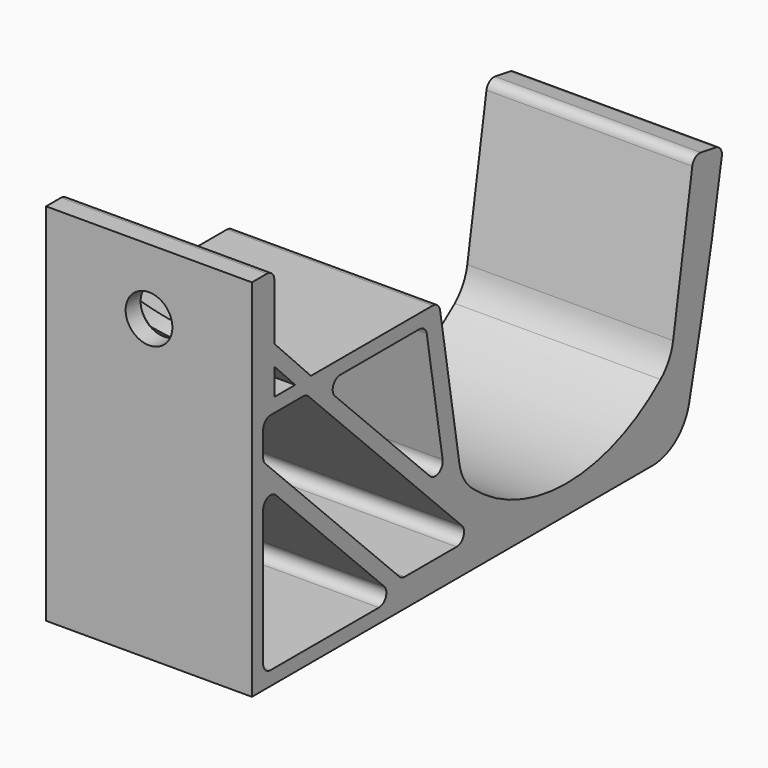
from build123d import *

# Parameters (mm, degrees)
F1_DEPTH  = 22
F2_R      = 5
F3_R      = 1
F4_R      = 1
F6_R      = 5
F7_DEPTH  = 47
F8_R      = 2.5
F9_DEPTH  = 50.001
F10_SIZE  = 1
F12_W     = 2
F12_H     = 14.2733568645
F13_DEPTH = 47
F16_DEPTH = 10
F17_R     = 0.5
F19_DEPTH = 22


with BuildPart() as f1:
    # F0 (on Right) → F1 (new body)
    with BuildSketch(Plane.YZ):
        with BuildLine():
            Line((3, 32), (3, 39))
            Line((3, 39), (0, 39))
            Line((0, 39), (0, 0))
            Line((0, 0), (57.4654344921, 0))
            ThreePointArc((57.4654344921, 0), (60.4687056177, 13.1164471126), (62.9455756953, 26.3424040508))
            Line((62.9455756953, 26.3424040508), (59, 27))
            Line((59, 27), (56, 9))
            ThreePointArc((56, 9), (42, 3), (28, 9))
            Line((28, 9), (25, 27))
            Line((25, 27), (7.8786796564, 27))
            Line((7.8786796564, 27), (5.7829372183, 27))
            Line((5.7829372183, 27), (3, 27))
            Line((3, 27), (3, 29.8521417825))
            Line((3, 29.8521417825), (3, 32))
        make_face()
        Polygon((19.3786796564, 1.5), (1.5, 1.5), (1.5, 19.3786796564), align=None, mode=Mode.SUBTRACT)
        Polygon((20, 3), (1.5, 21.5), (1.5, 25.5), (7.2573593129, 25.5), (29.7573593129, 3), align=None, mode=Mode.SUBTRACT)
        Polygon((25.9911590566, 8.8875205998), (9.3786796564, 25.5), (23.2224124899, 25.5), align=None, mode=Mode.SUBTRACT)
        with BuildLine():
            Line((3, 32), (3, 39))
            Line((3, 39), (0, 39))
            Line((0, 39), (0, 0))
            Line((0, 0), (57.4654344921, 0))
            ThreePointArc((57.4654344921, 0), (60.4687056177, 13.1164471126), (62.9455756953, 26.3424040508))
            Line((62.9455756953, 26.3424040508), (59, 27))
            Line((59, 27), (56, 9))
            ThreePointArc((56, 9), (42, 3), (28, 9))
            Line((28, 9), (25, 27))
            Line((25, 27), (7.8786796564, 27))
            Line((7.8786796564, 27), (5.7829372183, 27))
            Line((5.7829372183, 27), (3, 27))
            Line((3, 27), (3, 29.8521417825))
            Line((3, 29.8521417825), (3, 32))
        make_face()
        Polygon((19.3786796564, 1.5), (1.5, 1.5), (1.5, 19.3786796564), align=None, mode=Mode.SUBTRACT)
        Polygon((20, 3), (1.5, 21.5), (1.5, 25.5), (7.2573593129, 25.5), (29.7573593129, 3), align=None, mode=Mode.SUBTRACT)
        Polygon((25.9911590566, 8.8875205998), (9.3786796564, 25.5), (23.2224124899, 25.5), align=None, mode=Mode.SUBTRACT)
        with BuildLine():
            Line((3, 32), (3, 39))
            Line((3, 39), (0, 39))
            Line((0, 39), (0, 0))
            Line((0, 0), (57.4654344921, 0))
            ThreePointArc((57.4654344921, 0), (60.4687056177, 13.1164471126), (62.9455756953, 26.3424040508))
            Line((62.9455756953, 26.3424040508), (59, 27))
            Line((59, 27), (56, 9))
            ThreePointArc((56, 9), (42, 3), (28, 9))
            Line((28, 9), (25, 27))
            Line((25, 27), (7.8786796564, 27))
            Line((7.8786796564, 27), (5.7829372183, 27))
            Line((5.7829372183, 27), (3, 27))
            Line((3, 27), (3, 29.8521417825))
            Line((3, 29.8521417825), (3, 32))
        make_face()
        Polygon((19.3786796564, 1.5), (1.5, 1.5), (1.5, 19.3786796564), align=None, mode=Mode.SUBTRACT)
        Polygon((20, 3), (1.5, 21.5), (1.5, 25.5), (7.2573593129, 25.5), (29.7573593129, 3), align=None, mode=Mode.SUBTRACT)
        Polygon((25.9911590566, 8.8875205998), (9.3786796564, 25.5), (23.2224124899, 25.5), align=None, mode=Mode.SUBTRACT)
        Polygon((7.8786796564, 27), (3, 32), (3, 29.8521417825), (5.7829372183, 27), align=None)
    extrude(amount=F1_DEPTH)

    # F2
    f2_edges = [f1.edges().sort_by_distance(p)[0] for p in [
        (11, 57.465434, 0),
        (11, 56, 9),
        (11, 28, 9),
    ]]
    fillet(f2_edges, radius=F2_R)

    # F3
    f3_edges = [f1.edges().sort_by_distance(p)[0] for p in [
        (11, 59, 27),
        (11, 62.945576, 26.342404),
        (11, 3, 39),
        (11, 25, 27),
        (11, 23.222412, 25.5),
    ]]
    fillet(f3_edges, radius=F3_R)

    # F4
    f4_edges = [f1.edges().sort_by_distance(p)[0] for p in [
        (11, 1.5, 1.5),
        (11, 19.37868, 1.5),
        (11, 20, 3),
        (11, 1.5, 21.5),
        (11, 1.5, 19.37868),
        (11, 7.257359, 25.5),
        (11, 9.37868, 25.5),
        (11, 29.757359, 3),
        (11, 1.5, 25.5),
        (11, 25.991159, 8.887521),
    ]]
    fillet(f4_edges, radius=F4_R)

    # F6 (on offset) → F7 (cut, through all)
    with BuildSketch(Plane.XZ.offset(-50)):
        with Locations((11, 32)):
            Circle(F6_R)
    extrude(amount=F7_DEPTH, mode=Mode.SUBTRACT)

    # F8 (on offset) → F9 (cut, through all)
    with BuildSketch(Plane.XZ.offset(-50)):
        with Locations((11, 32)):
            Circle(F8_R)
    extrude(amount=F9_DEPTH, mode=Mode.SUBTRACT)

    # F10
    f10_edges = [f1.edges().sort_by_distance(p)[0] for p in [
        (8.5, 3, 32),
    ]]
    chamfer(f10_edges, length=F10_SIZE)

    # F12 (on offset) → F13 (cut)
    with BuildSketch(Plane.XY.offset(50)):
        with Locations((3.5, 49.1366784322)):
            Rectangle(F12_W, F12_H)
        with Locations((8.5, 49.1366784322)):
            Rectangle(F12_W, F12_H)
        with Locations((13.5, 49.1366784322)):
            Rectangle(F12_W, F12_H)
        with Locations((18.5, 49.1366784322)):
            Rectangle(F12_W, F12_H)
    extrude(amount=-F13_DEPTH, mode=Mode.SUBTRACT)

    # F15 (on offset) → F16 (cut, symmetric)
    with BuildSketch(Plane.YZ.offset(11)):
        Polygon((61.6930370138, 25.0304698651), (60.2329924048, 25.2738106333), (58.0149187036, 11.9653684263), (59.0013126275, 11.800969439), align=None)
    extrude(amount=F16_DEPTH, both=True, mode=Mode.SUBTRACT)

    # F17
    f17_edges = [f1.edges().sort_by_distance(p)[0] for p in [
        (11, 59.001313, 11.800969),
        (11, 60.232992, 25.273811),
        (11, 61.693037, 25.03047),
        (11, 58.014919, 11.965368),
    ]]
    fillet(f17_edges, radius=F17_R)

    # F18 (on face) → F19 (join, through all)
    with BuildSketch(Plane.YZ.offset(22)):
        with BuildLine():
            ThreePointArc((54.600010703, 7.6698580269), (42, 3), (29.399989297, 7.6698580269))
            Line((29.399989297, 7.6698580269), (28.7482646674, 6.9114024796))
            ThreePointArc((28.7482646674, 6.9114024796), (42, 2.000000095), (55.2517353326, 6.9114024796))
            ThreePointArc((55.2517353326, 6.9114024796), (56.568912669, 8.5171443059), (57.2597506946, 10.4757422152))
            Line((57.2597506946, 10.4757422152), (56.2733568645, 10.6401411869))
            ThreePointArc((56.2733568645, 10.6401411869), (55.6976585007, 9.0079762366), (54.600010703, 7.6698580269))
        make_face()
    extrude(amount=-F19_DEPTH)


solid = f1.part
